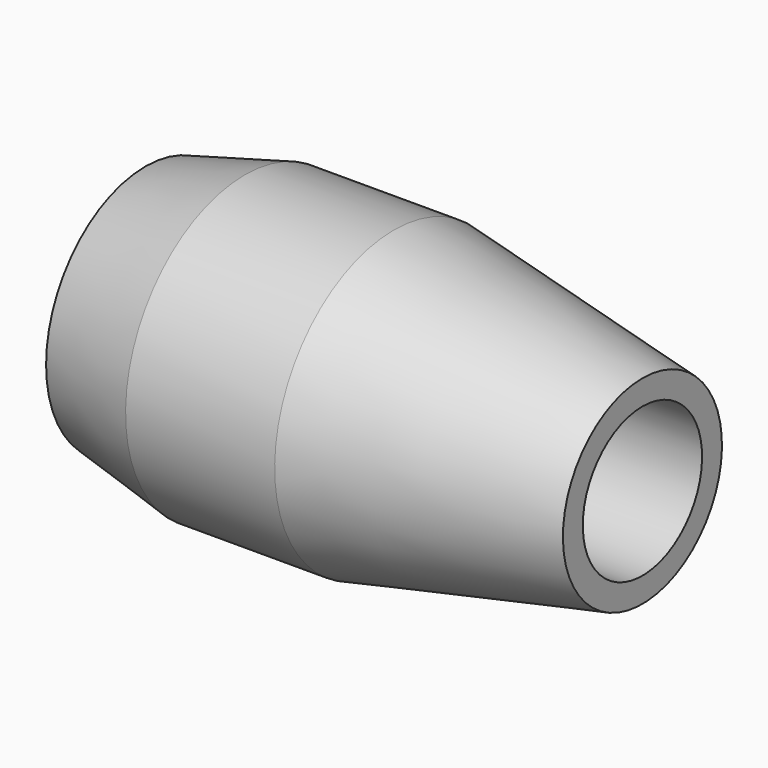
from build123d import *


with BuildPart() as part:
    # Sketch → Revolution (revolve)
    with BuildSketch(Plane.XZ):
        Polygon((-35, 0), (-35, 25), (-15, 30), (15, 30), (65, 20), (65, 15), (-30, 15), (-30, 0), align=None)
    revolve(axis=Axis((0, 0, 0), (1, 0, 0)))


solid = part.part
